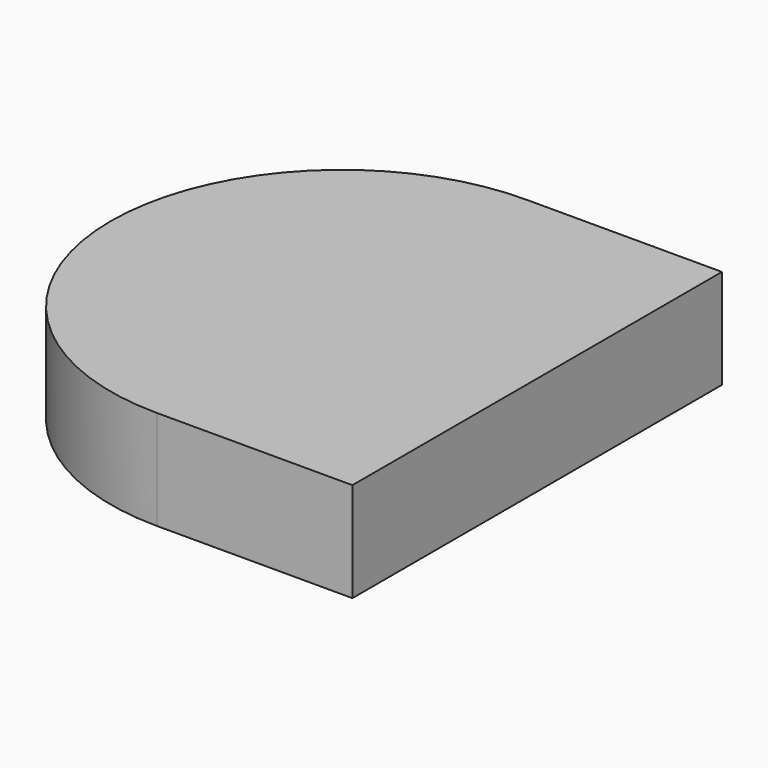
from build123d import *

# Parameters (mm, degrees)
PAD_DEPTH    = 0.07
SKETCH001_W  = 0.08
SKETCH001_H  = 0.03
POCKET_DEPTH = 0.068


with BuildPart() as part:
    # Sketch → Pad (new body)
    with BuildSketch(Plane.XY):
        with BuildLine():
            Line((-2e-06, 0.1625), (0.137498, 0.1625))
            Line((0.137498, 0.1625), (0.137498, -0.1625))
            Line((0.137498, -0.1625), (-2e-06, -0.1625))
            ThreePointArc((-2e-06, 0.1625), (-0.1625, 0), (-2e-06, -0.1625))
        make_face()
    extrude(amount=PAD_DEPTH)

    # Sketch001 → Pocket (cut)
    with BuildSketch(Plane(origin=(0, 0, 0), x_dir=(1, 0, 0), z_dir=(0, 0, -1))):
        with Locations((-0.0125, 0.125)):
            Rectangle(SKETCH001_W, SKETCH001_H)
        with Locations((-0.0125, -0.125)):
            Rectangle(SKETCH001_W, SKETCH001_H)
    extrude(amount=-POCKET_DEPTH, mode=Mode.SUBTRACT)


solid = part.part
